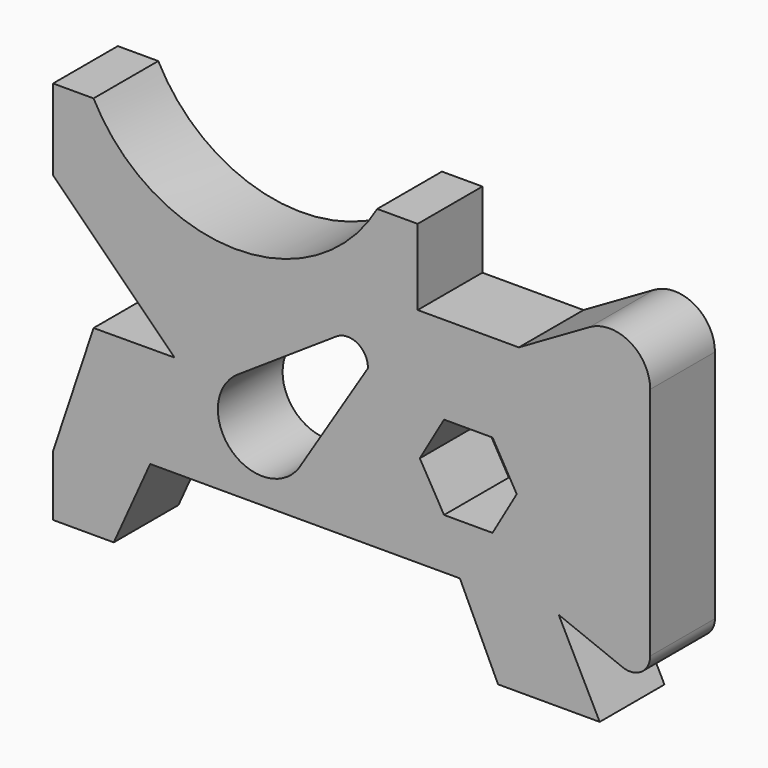
from build123d import *

# Parameters (mm, degrees)
F1_DEPTH = 25.4


with BuildPart() as f1:
    # F0 (on Front) → F1 (new body, symmetric)
    with BuildSketch(Plane.XZ):
        with BuildLine():
            Line((-44.916919, 198.608477), (-44.916919, 160.508477))
            Line((-44.916919, 160.508477), (-6.816919, 160.508477))
            Line((-6.816919, 160.508477), (16.043081, 211.308477))
            Line((16.043081, 211.308477), (210.520073, 211.308477))
            Line((210.520073, 211.308477), (234.483081, 160.508477))
            Line((234.483081, 160.508477), (298.30386, 160.508477))
            Line((298.30386, 160.508477), (272.583081, 211.342089))
            Line((272.583081, 211.342089), (312.618212, 195.445786))
            ThreePointArc((312.618212, 195.445786), (324.438256, 196.741963), (330.00493, 207.249373))
            Line((330.00493, 207.249373), (330.00493, 354.646402))
            ThreePointArc((330.00493, 354.646402), (317.30493, 376.643447), (291.90493, 376.643447))
            Line((291.90493, 376.643447), (247.50386, 351.008477))
            Line((247.50386, 351.008477), (184.00386, 351.008477))
            Line((184.00386, 351.008477), (184.00386, 398.640493))
            Line((184.00386, 398.640493), (158.60386, 398.640493))
            ThreePointArc((158.60386, 398.640493), (68.605788, 347.503038), (-19.516919, 401.808477))
            Line((-19.516919, 401.808477), (-44.916919, 401.808477))
            Line((-44.916919, 401.808477), (-44.916919, 351.008477))
            Line((-44.916919, 351.008477), (31.283081, 275.088161))
            Line((31.283081, 275.088161), (-19.484842, 274.904711))
            Line((-19.484842, 274.904711), (-44.916919, 198.608477))
        make_face()
        with BuildLine():
            Line((71.016416, 278.62224), (132.982412, 319.832927))
            ThreePointArc((132.982412, 319.832927), (146.335714, 320.273565), (152.693997, 308.522945))
            Line((152.693997, 308.522945), (109.385606, 239.345659))
            ThreePointArc((109.385606, 239.345659), (66.502664, 235.833096), (71.016416, 278.62224))
        make_face(mode=Mode.SUBTRACT)
        Polygon((246.215907, 269.480318), (230.998723, 243.123382), (200.564356, 243.123382), (185.347172, 269.480318), (200.564356, 295.837253), (230.998723, 295.837253), align=None, mode=Mode.SUBTRACT)
    extrude(amount=F1_DEPTH, both=True)


solid = f1.part
